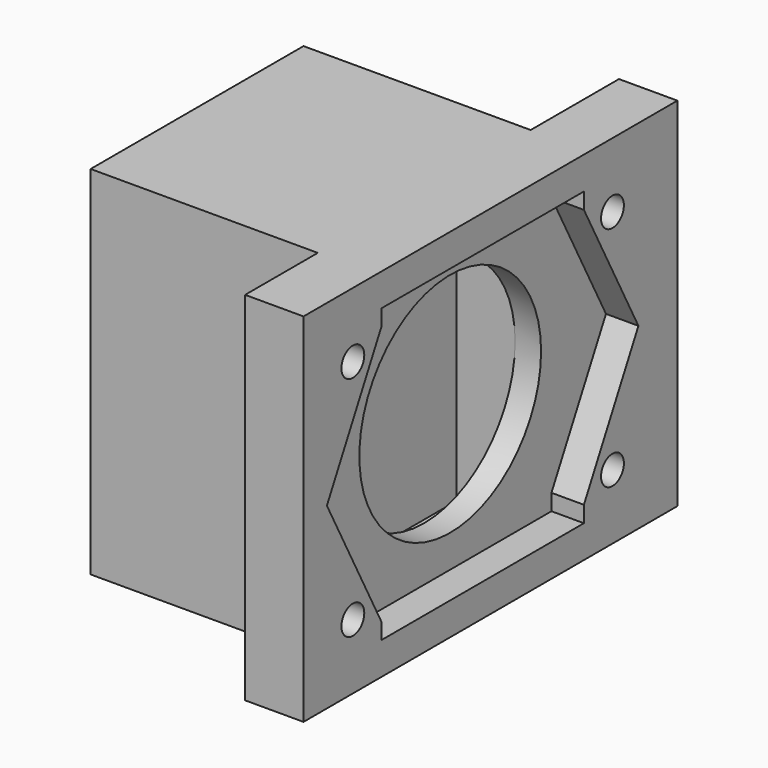
from build123d import *

# Parameters (mm, degrees)
SKETCH044_W     = 72
SKETCH044_H     = 55
PAD022_DEPTH    = 4
SKETCH046_R     = 17.5
POCKET015_DEPTH = 4.001
SKETCH047_W     = 72
SKETCH047_H     = 55
PAD023_DEPTH    = 5
SKETCH045_R     = 2.2
HOLE007_DEPTH   = 25
SKETCH048_W     = 41
SKETCH048_H     = 55
SKETCH048_W_2   = 35
SKETCH048_H_2   = 49
PAD024_DEPTH    = 35
SKETCH049_W     = 22
SKETCH049_H     = 2.5
PAD025_DEPTH    = 49


with BuildPart() as part:
    # Sketch044 → Pad022 (new body)
    with BuildSketch(Plane.YZ.offset(-130)):
        with Locations((1.5, 27.5)):
            Rectangle(SKETCH044_W, SKETCH044_H)
    extrude(amount=-PAD022_DEPTH)

    # Sketch046 (on Face5 of Hole007) → Pocket015 (cut, through all)
    with BuildSketch(Plane(origin=(-134, 0, 0), x_dir=(0, 1, 0), z_dir=(-1, 0, 0))):
        with Locations((0, -27.5)):
            Circle(SKETCH046_R)
    extrude(amount=-POCKET015_DEPTH, mode=Mode.SUBTRACT)

    # Sketch047 (on Face4 of Pocket015) → Pad023 (join)
    with BuildSketch(Plane.YZ.offset(-130)):
        with Locations((1.5, 27.5)):
            Rectangle(SKETCH047_W, SKETCH047_H)
        Polygon((-30, 27.5), (-19.5, 7.5), (-19.5, 5), (19.5, 5), (19.5, 7.5), (30, 27.5), (19.5, 47.5), (19.5, 50), (-19.5, 50), (-19.5, 47.5), align=None, mode=Mode.SUBTRACT)
    extrude(amount=PAD023_DEPTH)

    # Sketch045 (on Face6 of Pad022) → Hole007 (cut)
    with BuildSketch(Plane(origin=(-134, 0, 0), x_dir=(0, 1, 0), z_dir=(-1, 0, 0))):
        with Locations((-25, -10)):
            Circle(SKETCH045_R)
        with Locations((-25, -45)):
            Circle(SKETCH045_R)
        with Locations((25, -45)):
            Circle(SKETCH045_R)
        with Locations((25, -10)):
            Circle(SKETCH045_R)
    extrude(amount=-HOLE007_DEPTH, mode=Mode.SUBTRACT)

    # Sketch048 (on Face5 of Hole007) → Pad024 (join)
    with BuildSketch(Plane(origin=(-134, 0, 0), x_dir=(0, 1, 0), z_dir=(-1, 0, 0))):
        with Locations((0, -27.5)):
            Rectangle(SKETCH048_W, SKETCH048_H)
        with Locations((0, -27.5)):
            Rectangle(SKETCH048_W_2, SKETCH048_H_2, mode=Mode.SUBTRACT)
    extrude(amount=PAD024_DEPTH)

    # Sketch049 (on Face31 of Pad024) → Pad025 (join)
    with BuildSketch(Plane(origin=(0, 0, 3), x_dir=(0, -1, 0), z_dir=(0, 0, 1))):
        with Locations((-6.5, -144.25)):
            Rectangle(SKETCH049_W, SKETCH049_H)
        with Locations((6.5, -154.75)):
            Rectangle(SKETCH049_W, SKETCH049_H)
        with Locations((-6.5, -165.25)):
            Rectangle(SKETCH049_W, SKETCH049_H)
    extrude(amount=PAD025_DEPTH)


solid = part.part
